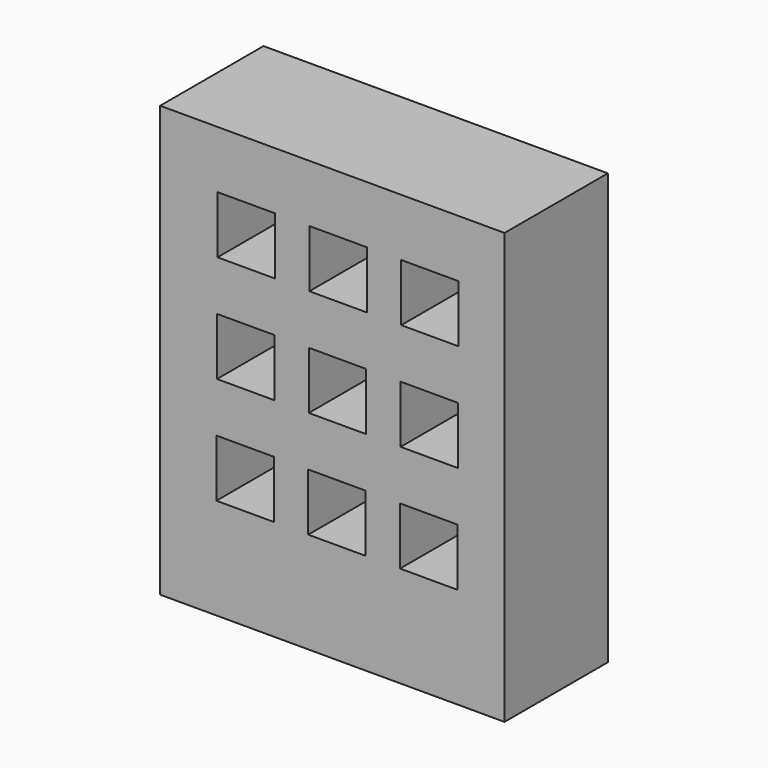
from build123d import *

# Parameters (mm, degrees)
F0_W     = 12
F0_H     = 4.5
F1_DEPTH = 15
F2_W     = 2
F2_H     = 2
F3_DEPTH = 3


with BuildPart() as f1:
    # F0 (on Top) → F1 (new body)
    with BuildSketch(Plane.XY):
        with Locations((6, 2.25)):
            Rectangle(F0_W, F0_H)
    extrude(amount=F1_DEPTH)

    # F2 (on face) → F3 (cut)
    with BuildSketch(Plane.XZ):
        with Locations((3, 12)):
            Rectangle(F2_W, F2_H)
        with Locations((6.2, 12)):
            Rectangle(F2_W, F2_H)
        with Locations((9.4, 12)):
            Rectangle(F2_W, F2_H)
        with Locations((2.98, 8.26)):
            Rectangle(F2_W, F2_H)
        with Locations((6.18, 8.26)):
            Rectangle(F2_W, F2_H)
        with Locations((9.38, 8.26)):
            Rectangle(F2_W, F2_H)
        with Locations((2.96, 4.52)):
            Rectangle(F2_W, F2_H)
        with Locations((6.16, 4.52)):
            Rectangle(F2_W, F2_H)
        with Locations((9.36, 4.52)):
            Rectangle(F2_W, F2_H)
    extrude(amount=-F3_DEPTH, mode=Mode.SUBTRACT)


solid = f1.part
